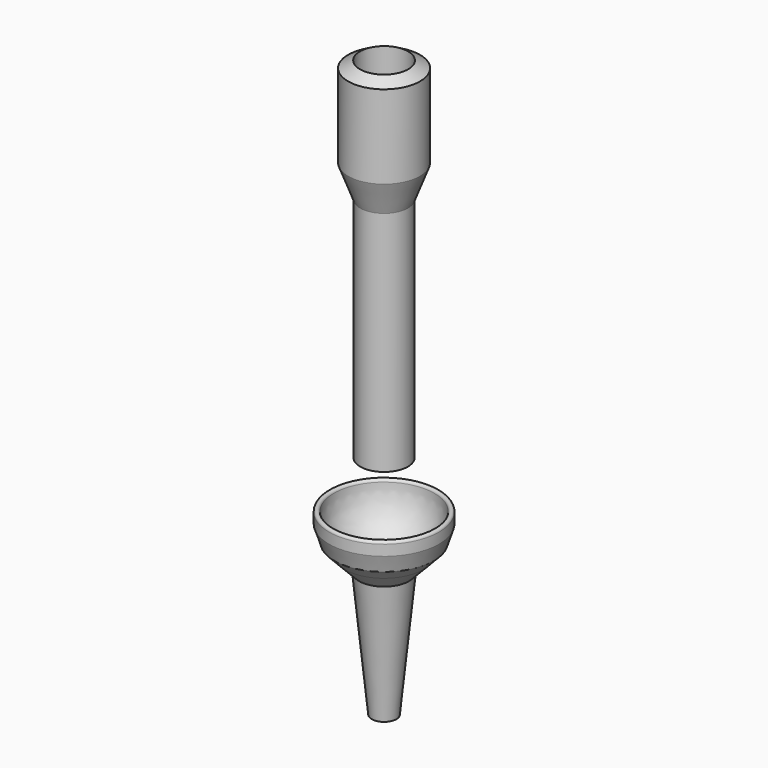
from build123d import *


with BuildPart() as f1:
    # F0 (on Front) → F1 (revolve)
    with BuildSketch(Plane.XZ):
        with BuildLine():
            ThreePointArc((8.768533, 0), (8.384267, 0.384267), (8, 0))
            ThreePointArc((8, 0), (6.59196, -4.532777), (2.863484, -7.469971))
            Line((2.863484, -7.469971), (1.220015, -28.413521))
            Line((1.220015, -28.413521), (1.971818, -28.472516))
            Line((1.971818, -28.472516), (3.981584, -8.444457))
            Line((3.981584, -8.444457), (6.234266, -6.097914))
            Line((6.234266, -6.097914), (7.923777, -4.31454))
            Line((7.923777, -4.31454), (8.768533, -1.686412))
            Line((8.768533, -1.686412), (8.768533, 0))
        make_face()
    revolve(axis=Axis((0, 0, -14.241969), (0, 0, 1)))


with BuildPart() as f3:
    # F2 (on Front) → F3 (revolve)
    with BuildSketch(Plane.XZ):
        Polygon((5.735391, 62.287069), (3.85, 63.372196), (3.85, 49.223183), (3.018864, 43.849036), (3.018864, 7.564358), (3.8, 7.564358), (3.8, 43.849036), (5.735391, 48.981258), align=None)
    revolve(axis=Axis((0, 0, 35.064268), (0, 0, 1)))


solid = Compound([f1.part, f3.part])
